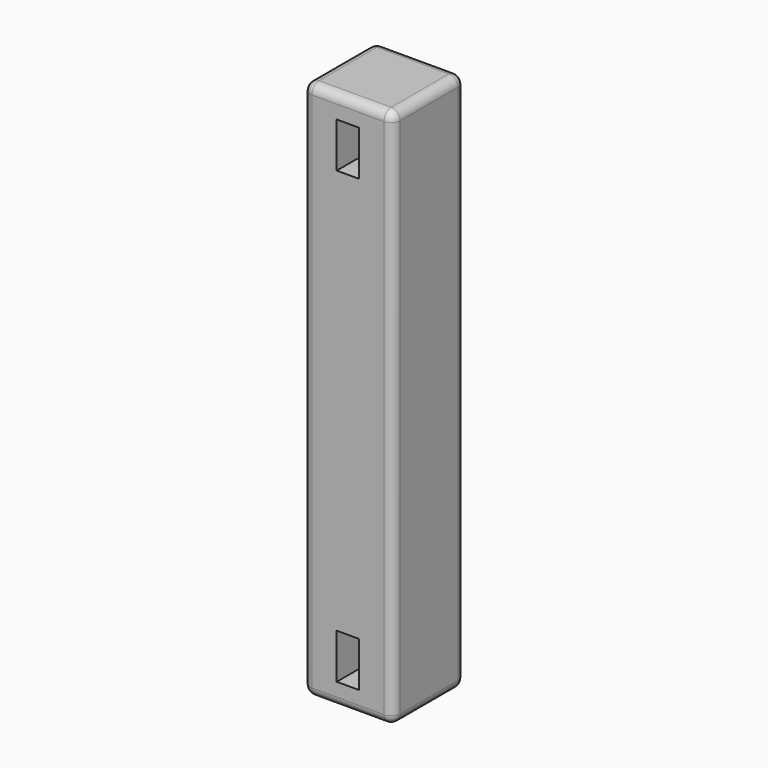
from build123d import *

# Parameters (mm, degrees)
F0_W     = 50.8
F0_H     = 304.8
F1_DEPTH = 25.4
F2_R     = 5.08
F3_W     = 12.7
F3_H     = 25.4
F4_DEPTH = 50.801
F5_W     = 12.7
F5_H     = 25.4
F6_DEPTH = 50.801


with BuildPart() as f1:
    # F0 (on Front) → F1 (new body, symmetric)
    with BuildSketch(Plane.XZ):
        with Locations((-0.276533, 53.275813)):
            Rectangle(F0_W, F0_H)
    extrude(amount=F1_DEPTH, both=True)

    # F2
    f2_edges = [f1.edges().sort_by_distance(p)[0] for p in [
        (25.123467, -25.4, 53.275813),
        (25.123467, 25.4, 53.275813),
        (-25.676533, 25.4, 53.275813),
        (-25.676533, -25.4, 53.275813),
        (25.123467, 0, 205.675813),
        (-0.276533, 25.4, 205.675813),
        (-25.676533, 0, 205.675813),
        (-0.276533, -25.4, 205.675813),
        (-0.276533, 25.4, -99.124187),
        (25.123467, 0, -99.124187),
        (-0.276533, -25.4, -99.124187),
        (-25.676533, 0, -99.124187),
    ]]
    fillet(f2_edges, radius=F2_R)

    # F3 (on face) → F4 (cut, through all)
    with BuildSketch(Plane.XZ.offset(25.4)):
        with Locations((-0.276533, 180.275813)):
            Rectangle(F3_W, F3_H)
    extrude(amount=-F4_DEPTH, mode=Mode.SUBTRACT)

    # F5 (on face) → F6 (cut, through all)
    with BuildSketch(Plane.XZ.offset(25.4)):
        with Locations((-0.276533, -73.724187)):
            Rectangle(F5_W, F5_H)
    extrude(amount=-F6_DEPTH, mode=Mode.SUBTRACT)


solid = f1.part
